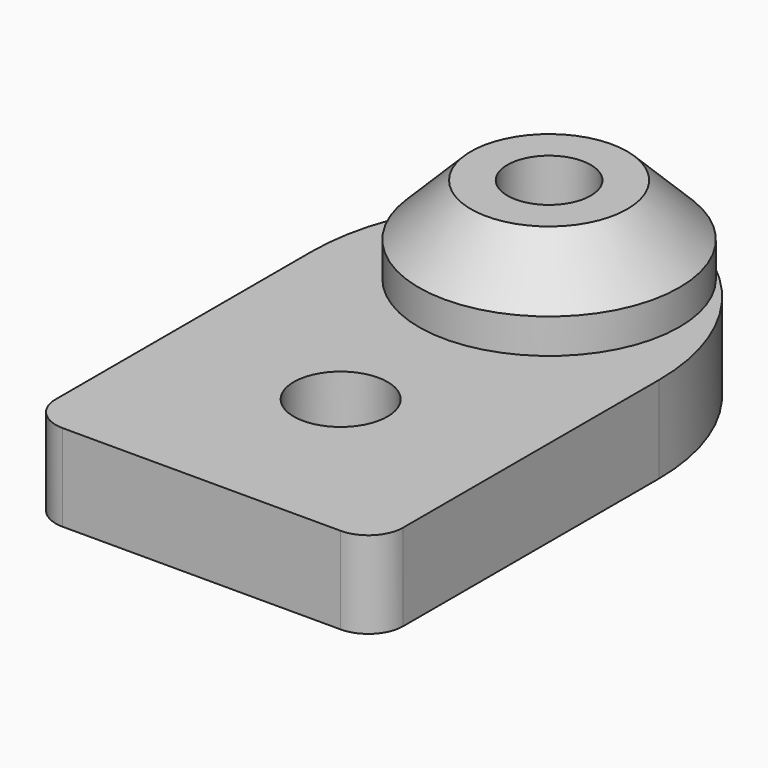
from build123d import *

# Parameters (mm, degrees)
F0_R     = 2.7
F0_R_2   = 2.4
F1_DEPTH = 5
F2_R     = 7.5
F2_R_2   = 2.4
F3_DEPTH = 5
F4_SIZE  = 3
F5_R     = 2


with BuildPart() as f1:
    # F0 (on Top) → F1 (new body)
    with BuildSketch(Plane.XY):
        with BuildLine():
            Line((-10, 20.4), (-10, 0))
            Line((-10, 0), (10, 0))
            Line((10, 0), (10, 20.4))
            ThreePointArc((10, 20.4), (8.424303, 26.599078), (4.079715, 31.293324))
            ThreePointArc((4.079715, 31.293324), (0, 32.5), (-4.079715, 31.293324))
            ThreePointArc((-4.079715, 31.293324), (-8.424303, 26.599078), (-10, 20.4))
        make_face()
        with Locations((0, 10)):
            Circle(F0_R, mode=Mode.SUBTRACT)
        with Locations((0, 25)):
            Circle(F0_R_2, mode=Mode.SUBTRACT)
    extrude(amount=F1_DEPTH)

    # F2 (on face) → F3 (join)
    with BuildSketch(Plane.XY.offset(5)):
        with Locations((0, 25)):
            Circle(F2_R)
        with Locations((0, 25)):
            Circle(F2_R_2, mode=Mode.SUBTRACT)
    extrude(amount=F3_DEPTH)

    # F4
    f4_edges = [f1.edges().sort_by_distance(p)[0] for p in [
        (-7.5, 25, 10),
    ]]
    chamfer(f4_edges, length=F4_SIZE)

    # F5
    f5_edges = [f1.edges().sort_by_distance(p)[0] for p in [
        (-10, 0, 2.5),
        (10, 0, 2.5),
    ]]
    fillet(f5_edges, radius=F5_R)


solid = f1.part
